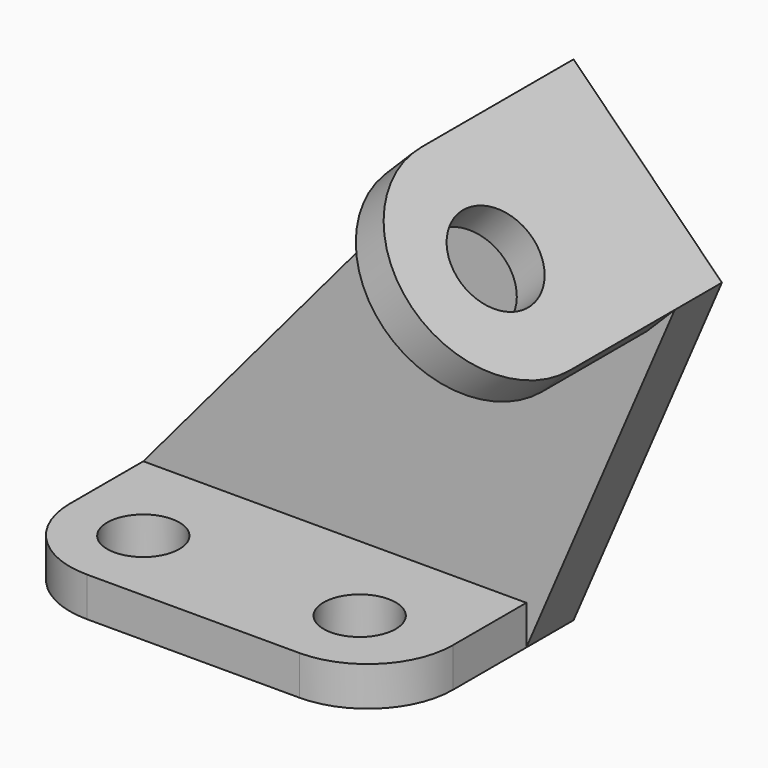
from build123d import *

# Parameters (mm, degrees)
F1_DEPTH = 9
F2_R     = 5.5
F3_DEPTH = 6
F5_R     = 7
F6_DEPTH = 6


with BuildPart() as f1:
    # F0 (on Front) → F1 (new body)
    with BuildSketch(Plane.XZ):
        Polygon((81.047416998, 52.686291501), (58.42, 75.313708499), (0, 6), (0, 0), (58.42, 0), align=None)
    extrude(amount=-F1_DEPTH)

    # F2 (on Top) → F3 (join)
    with BuildSketch(Plane.XY):
        with BuildLine():
            Line((58.42, 0), (0, 0))
            Line((0, 0), (0, -14))
            ThreePointArc((0, -14), (3.8076118446, -23.1923881554), (13, -27))
            Line((13, -27), (45.42, -27))
            ThreePointArc((45.42, -27), (54.6123881554, -23.1923881554), (58.42, -14))
            Line((58.42, -14), (58.42, 0))
        make_face()
        with Locations((12, -15)):
            Circle(F2_R, mode=Mode.SUBTRACT)
        with Locations((45, -15)):
            Circle(F2_R, mode=Mode.SUBTRACT)
    extrude(amount=F3_DEPTH)

    # F5 (on offset) → F6 (join)
    with BuildSketch(Plane(origin=(66.8668542495, 0, 66.8668542495), x_dir=(0, 1, 0), z_dir=(0.7071067812, 0, 0.7071067812))):
        with BuildLine():
            Line((9, -20.054344161), (9, 11.945655839))
            Line((9, 11.945655839), (-20, 11.945655839))
            ThreePointArc((-20, 11.945655839), (-36, -4.054344161), (-20, -20.054344161))
            Line((-20, -20.054344161), (9, -20.054344161))
        make_face()
        with Locations((-20, -4.054344161)):
            Circle(F5_R, mode=Mode.SUBTRACT)
    extrude(amount=-F6_DEPTH)


solid = f1.part
